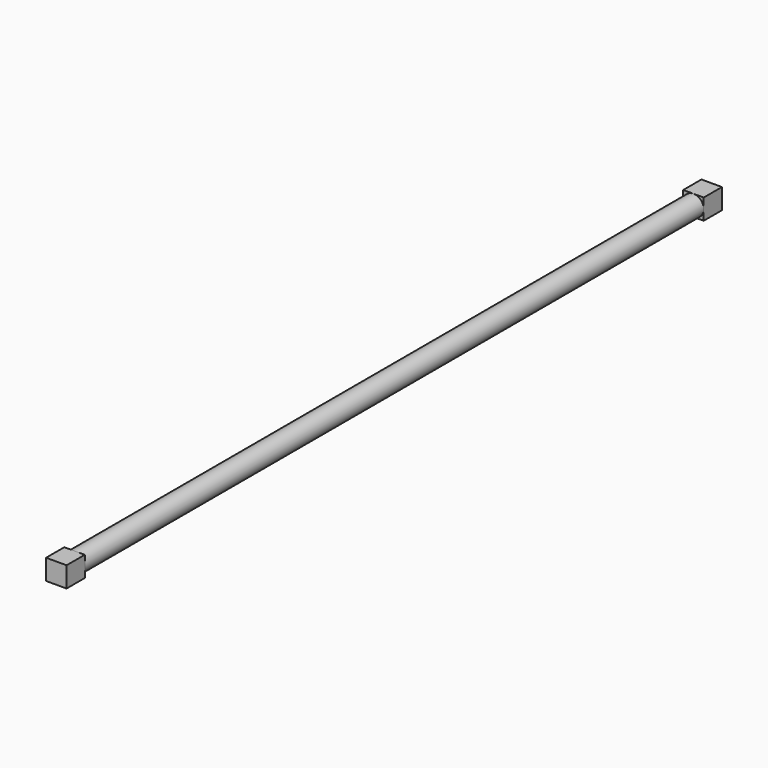
from build123d import *

# Parameters (mm, degrees)
F0_R     = 5.715
F1_DEPTH = 457.2
F2_W     = 11.43
F2_H     = 11.43
F3_DEPTH = 12.7
F4_W     = 11.43
F4_H     = 11.43
F5_DEPTH = 12.7


with BuildPart() as f1:
    # F0 (on Front) → F1 (new body)
    with BuildSketch(Plane.XZ):
        Circle(F0_R)
    extrude(amount=F1_DEPTH)

    # F2 (on face) → F3 (join)
    with BuildSketch(Plane(origin=(0, 0, 0), x_dir=(-1, 0, 0), z_dir=(0, 1, 0))):
        Rectangle(F2_W, F2_H)
    extrude(amount=-F3_DEPTH)

    # F4 (on face) → F5 (join)
    with BuildSketch(Plane.XZ.offset(457.2)):
        Rectangle(F4_W, F4_H)
    extrude(amount=-F5_DEPTH)


solid = f1.part
